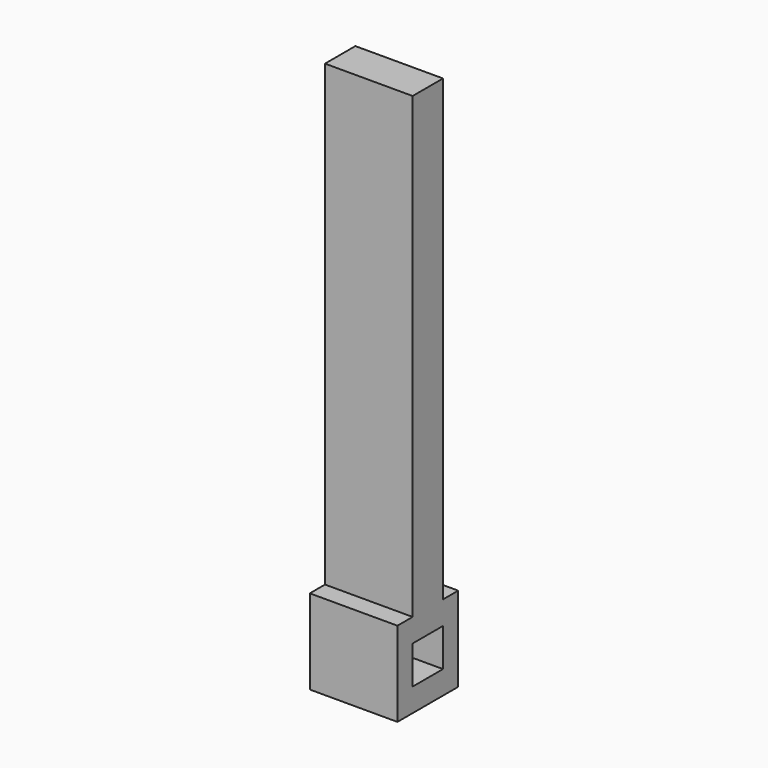
from build123d import *

# Parameters (mm, degrees)
F0_W     = 30
F0_H     = 13
F1_DEPTH = 157
F2_W     = 30
F2_H     = 26
F3_DEPTH = 8
F4_W     = 30
F4_H     = 6.5
F5_DEPTH = 13
F6_W     = 30
F6_H     = 26
F7_DEPTH = 8


with BuildPart() as f1:
    # F0 (on Top) → F1 (new body)
    with BuildSketch(Plane.XY):
        Rectangle(F0_W, F0_H)
    extrude(amount=F1_DEPTH)

    # F2 (on face) → F3 (join)
    with BuildSketch(Plane(origin=(0, 0, 0), x_dir=(1, 0, 0), z_dir=(0, 0, -1))):
        Rectangle(F2_W, F2_H)
    extrude(amount=F3_DEPTH)

    # F4 (on face) → F5 (join)
    with BuildSketch(Plane(origin=(0, 0, -8), x_dir=(1, 0, 0), z_dir=(0, 0, -1))):
        with Locations((0, -9.75)):
            Rectangle(F4_W, F4_H)
        with Locations((0, 9.75)):
            Rectangle(F4_W, F4_H)
    extrude(amount=F5_DEPTH)

    # F6 (on face) → F7 (join)
    with BuildSketch(Plane(origin=(0, 0, -21), x_dir=(1, 0, 0), z_dir=(0, 0, -1))):
        Rectangle(F6_W, F6_H)
    extrude(amount=F7_DEPTH)


solid = f1.part
